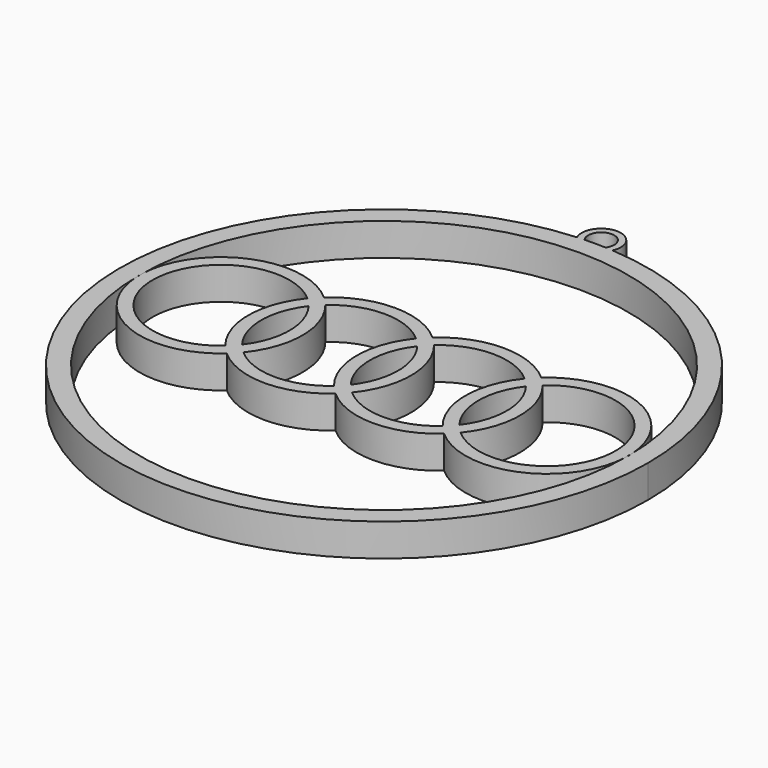
from build123d import *

# Parameters (mm, degrees)
SKETCH001_R         = 12.5
SKETCH001_R_2       = 10.5
PAD_DEPTH           = 5
LINEARPATTERN_COUNT = 4
LINEARPATTERN_PITCH = 16.666667
SKETCH_R            = 40.5
SKETCH_R_2          = 37.5
PAD001_DEPTH        = 5
SKETCH002_R         = 3
SKETCH002_R_2       = 2
PAD002_DEPTH        = 5


with BuildPart() as body:
    # Sketch001 → Pad (new body)
    with BuildSketch(Plane.XY):
        with Locations((-25, 0)):
            Circle(SKETCH001_R)
        with Locations((-25, 0)):
            Circle(SKETCH001_R_2, mode=Mode.SUBTRACT)
    pad = extrude(amount=PAD_DEPTH)

    # LinearPattern: Pad ×4
    with Locations(*[(i * LINEARPATTERN_PITCH, 0, 0) for i in range(1, LINEARPATTERN_COUNT)]):
        add(pad)


with BuildPart() as body001:
    # Sketch → Pad001 (new body)
    with BuildSketch(Plane.XY):
        Circle(SKETCH_R)
        Circle(SKETCH_R_2, mode=Mode.SUBTRACT)
    extrude(amount=PAD001_DEPTH)

    # Sketch002 → Pad002 (join)
    with BuildSketch(Plane.XY):
        with Locations((0, 41.657417)):
            Circle(SKETCH002_R)
        with Locations((0, 41.657417)):
            Circle(SKETCH002_R_2, mode=Mode.SUBTRACT)
    extrude(amount=PAD002_DEPTH)


solid = Compound([body.part, body001.part])
